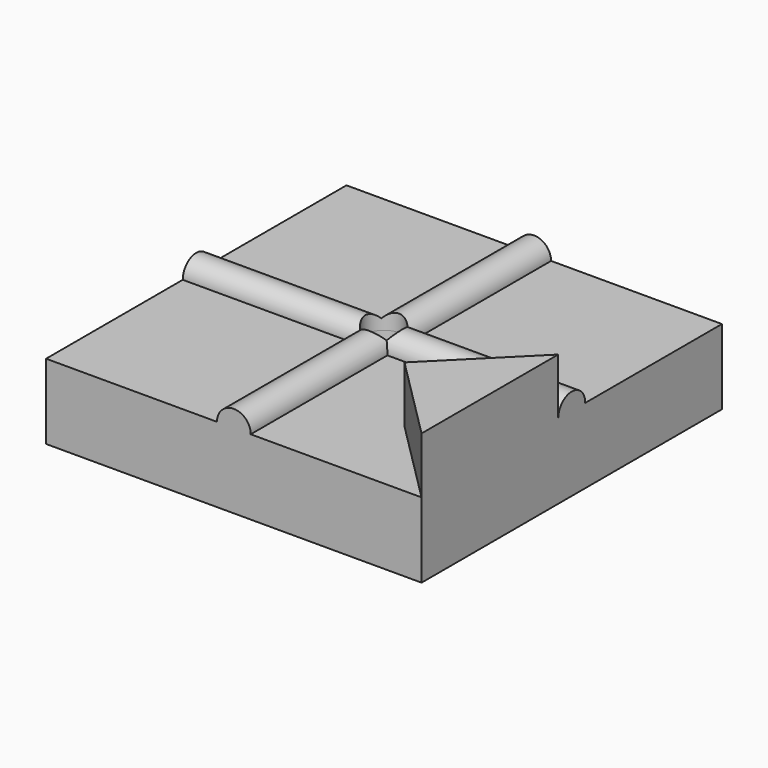
from build123d import *

# Parameters (mm, degrees)
F0_W          = 25.4
F0_H          = 25.4
F1_DEPTH      = 5.08
F3_DEPTH      = 25.4
F5_DEPTH      = 25.4
F6_R          = 1.27
F7_DEPTH      = 25.4
F7_DEPTH_BACK = 25.4
F9_DEPTH      = 3.81
F10_R         = 1.27
F11_DEPTH     = 3.175


with BuildPart() as f1:
    # F0 (on Top) → F1 (new body)
    with BuildSketch(Plane.XY):
        Rectangle(F0_W, F0_H)
    extrude(amount=F1_DEPTH)

    # F2 (on face) → F3 (join)
    with BuildSketch(Plane(origin=(-12.7, 0, 0), x_dir=(0, -1, 0), z_dir=(-1, 0, 0))):
        with BuildLine():
            Line((-1.143, 5.08), (1.143, 5.08))
            ThreePointArc((1.143, 5.08), (0, 6.223), (-1.143, 5.08))
        make_face()
    extrude(amount=-F3_DEPTH)

    # F4 (on face) → F5 (join)
    with BuildSketch(Plane.XZ.offset(12.7)):
        with BuildLine():
            Line((-1.143, 5.08), (1.143, 5.08))
            ThreePointArc((1.143, 5.08), (0, 6.223), (-1.143, 5.08))
        make_face()
    extrude(amount=-F5_DEPTH)

    # F6 (on face) → F7 (cut, two sides)
    with BuildSketch(Plane.XY.offset(5.08)) as f7_sk:
        Circle(F6_R)
    extrude(amount=-F7_DEPTH, mode=Mode.SUBTRACT)
    extrude(f7_sk.sketch, amount=F7_DEPTH_BACK, mode=Mode.SUBTRACT)

    # F8 (on face) → F9 (join)
    with BuildSketch(Plane.XY.offset(5.08)):
        Polygon((12.7, -1.143), (6.9215, -6.9215), (12.7, -12.7), align=None)
    extrude(amount=F9_DEPTH)

    # F10 (on face) → F11 (cut)
    with BuildSketch(Plane(origin=(0, 0, 0), x_dir=(1, 0, 0), z_dir=(0, 0, -1))):
        Polygon((-1.8330871047, -3.175), (1.8330871047, -3.175), (3.6661742094, 0), (1.8330871047, 3.175), (-1.8330871047, 3.175), (-3.6661742094, 0), align=None)
        Circle(F10_R, mode=Mode.SUBTRACT)
    extrude(amount=-F11_DEPTH, mode=Mode.SUBTRACT)


solid = f1.part
